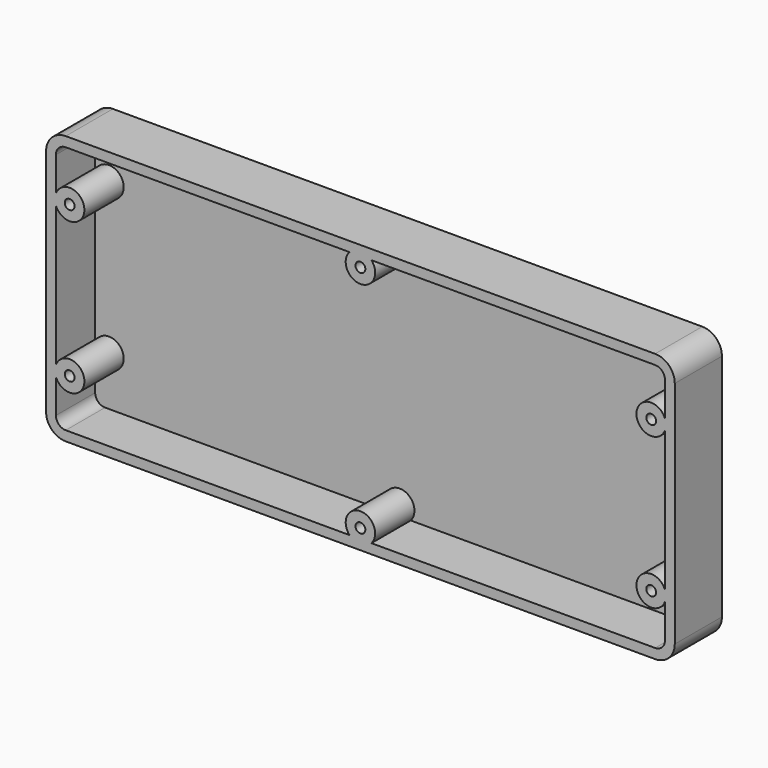
from build123d import *

# Parameters (mm, degrees)
F0_R     = 1.5875
F1_DEPTH = 19.05
F2_T     = -3.175


with BuildPart() as f1:
    # F0 (on Front) → F1 (new body)
    with BuildSketch(Plane.XZ):
        with BuildLine():
            Line((70.345883, 44.260376), (-120.154117, 44.260376))
            ThreePointArc((-120.154117, 44.260376), (-124.644245, 42.400504), (-126.504117, 37.910376))
            Line((-126.504117, 37.910376), (-126.504117, -36.257624))
            ThreePointArc((-126.504117, -36.257624), (-124.644245, -40.747752), (-120.154117, -42.607624))
            Line((-120.154117, -42.607624), (70.345883, -42.607624))
            ThreePointArc((70.345883, -42.607624), (74.836011, -40.747752), (76.695883, -36.257624))
            Line((76.695883, -36.257624), (76.695883, 37.910376))
            ThreePointArc((76.695883, 37.910376), (74.836011, 42.400504), (70.345883, 44.260376))
        make_face()
        with Locations((-118.884117, -23.557624)):
            Circle(F0_R, mode=Mode.SUBTRACT)
        with Locations((-24.904117, -36.257624)):
            Circle(F0_R, mode=Mode.SUBTRACT)
        with Locations((69.075883, -23.557624)):
            Circle(F0_R, mode=Mode.SUBTRACT)
        with Locations((-118.884117, 25.210376)):
            Circle(F0_R, mode=Mode.SUBTRACT)
        with Locations((-24.904117, 37.910376)):
            Circle(F0_R, mode=Mode.SUBTRACT)
        with Locations((69.075883, 25.210376)):
            Circle(F0_R, mode=Mode.SUBTRACT)
    extrude(amount=F1_DEPTH)

    # F2
    f2_openings = [f1.faces().sort_by_distance(p)[0] for p in [
        (-24.904117, -19.05, 0.826376),
    ]]
    offset(amount=F2_T, openings=f2_openings)


solid = f1.part
